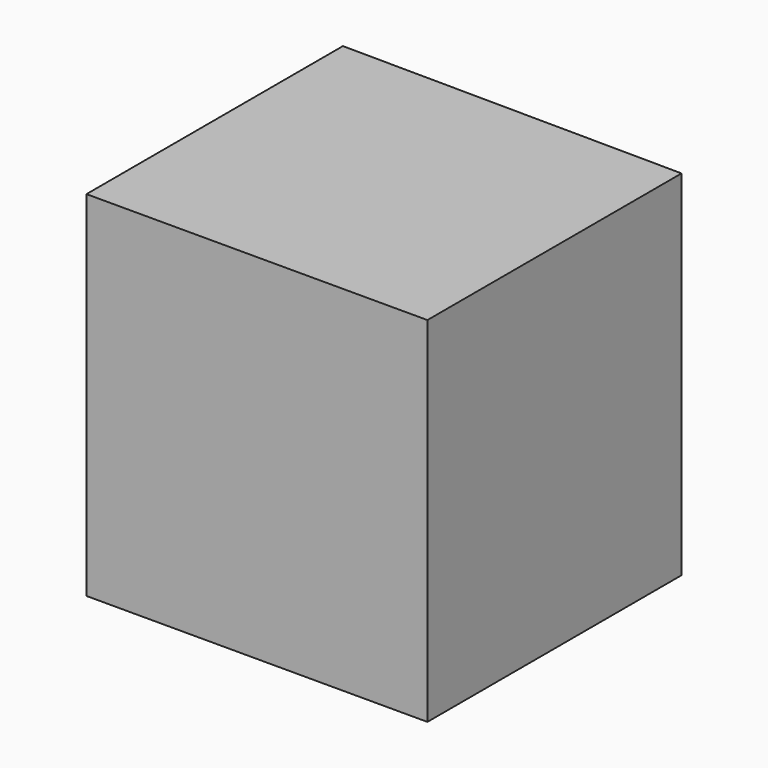
from build123d import *

# Parameters (mm, degrees)
F1_DEPTH = 50.368406


with BuildPart() as f1:
    # F0 (on Top) → F1 (new body)
    with BuildSketch(Plane.XY):
        Polygon((23.235172, 22.61284), (-25.309801, 23.027755), (-25.309801, -22.61281), (23.235172, -22.61281), align=None)
    extrude(amount=-F1_DEPTH)


solid = f1.part
